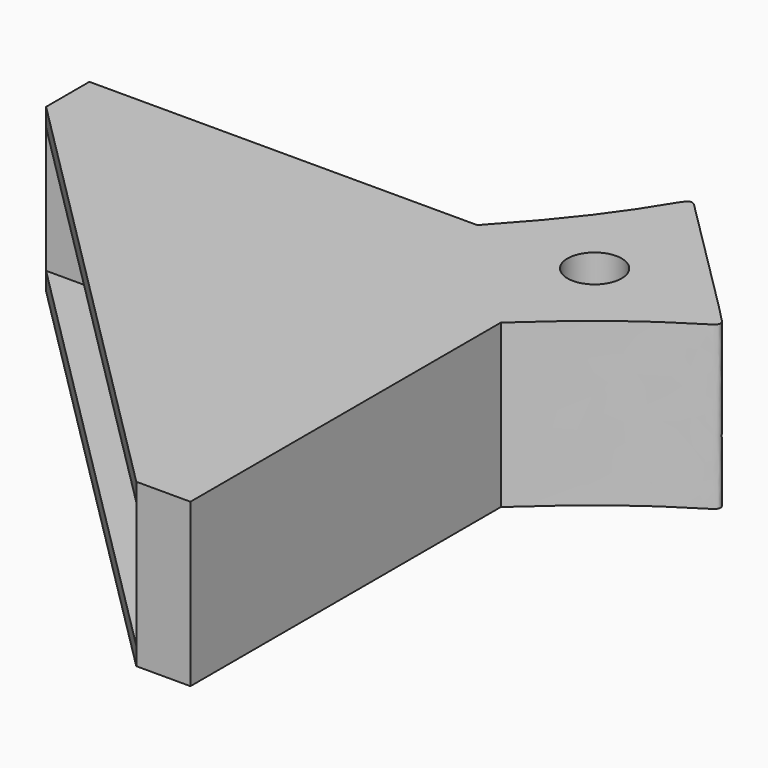
from build123d import *

# Parameters (mm, degrees)
F2_DEPTH      = 4.5
F2_DEPTH_BACK = 4.5
F3_DEPTH      = 3.5
F3_DEPTH_BACK = 3.5
F4_R          = 1.5
F5_DEPTH      = 9


with BuildPart() as f2:
    # F1 (on face) → F2 (new body, two sides)
    with BuildSketch(Plane.XY) as f2_sk:
        with BuildLine():
            Line((28.0000000261, -25), (28.0000000261, -3.5))
            ThreePointArc((28.0000000261, -3.5), (26.0961940962, 1.0961940962), (21.5, 3.0000000261))
            Line((21.5, 3.0000000261), (0, 3.0000000261))
            Line((0, 3.0000000261), (0, 0))
            Line((0, 0), (25.0000000261, -25))
            Line((25.0000000261, -25), (28.0000000261, -25))
        make_face()
    extrude(amount=F2_DEPTH)
    extrude(f2_sk.sketch, amount=-F2_DEPTH_BACK)

    # F0 (on Top) → F3 (cut, two sides)
    with BuildSketch(Plane.XY) as f3_sk:
        with BuildLine():
            Line((21.5, 0), (0, 0))
            Line((0, 0), (25, -25))
            Line((25, -25), (25, -3.5))
            ThreePointArc((25, -3.5), (23.9748737342, -1.0251262658), (21.5, 0))
        make_face()
    extrude(amount=-F3_DEPTH, mode=Mode.SUBTRACT)
    extrude(f3_sk.sketch, amount=F3_DEPTH_BACK, mode=Mode.SUBTRACT)

    # F4 (on face) → F5 (join, through all)
    with BuildSketch(Plane.XY.offset(4.5)):
        with BuildLine():
            add(Edge.make_bspline(
                [(21.5, 3.0000000261), (28.0000000261, 10), (25.244596364, 12.7554036621), (37.7554036621, 0.244596364), (35, 3.0000000261), (28.0000000261, -3.5)],
                knots=[0, 0, 0, 0, 0.3313451275, 0.6686548725, 1, 1, 1, 1], degree=3))
            ThreePointArc((21.5, 3.0000000261), (26.0961940962, 1.0961940962), (28.0000000261, -3.5))
        make_face()
        with Locations((28.0000000261, 3.0000000261)):
            Circle(F4_R, mode=Mode.SUBTRACT)
    extrude(amount=-F5_DEPTH)


solid = f2.part
